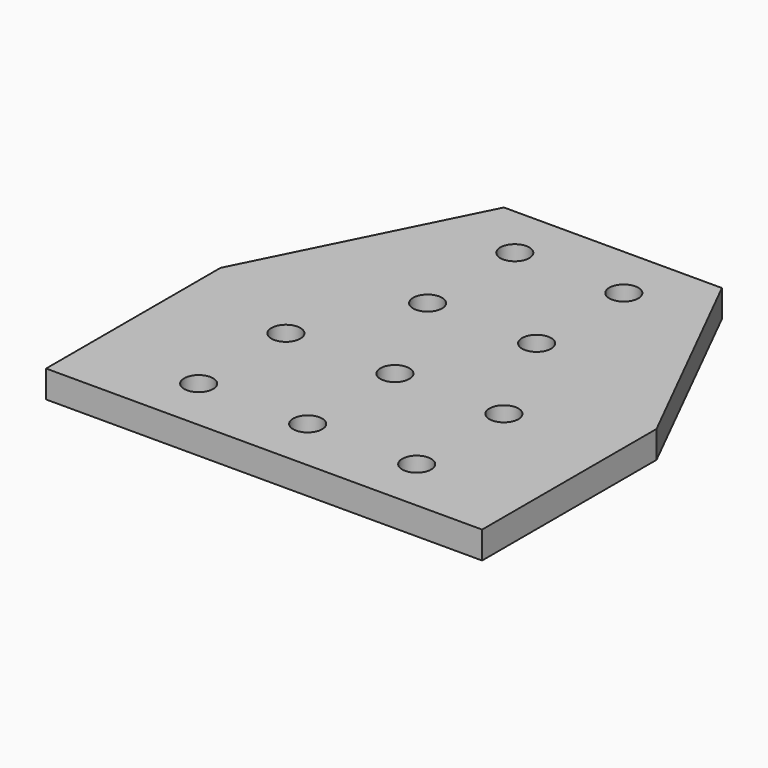
from build123d import *

# Parameters (mm, degrees)
F0_R     = 3.3782
F1_DEPTH = 6.35


with BuildPart() as f1:
    # F0 (on Top) → F1 (new body)
    with BuildSketch(Plane.XY):
        Polygon((76.2, 0), (25.4, 0), (0, -50.8), (0, -101.6), (101.6, -101.6), (101.6, -50.8), align=None)
        with Locations((25.4, -88.9)):
            Circle(F0_R, mode=Mode.SUBTRACT)
        with Locations((50.8, -88.9)):
            Circle(F0_R, mode=Mode.SUBTRACT)
        with Locations((25.4, -63.5)):
            Circle(F0_R, mode=Mode.SUBTRACT)
        with Locations((50.8, -63.5)):
            Circle(F0_R, mode=Mode.SUBTRACT)
        with Locations((76.2, -88.9)):
            Circle(F0_R, mode=Mode.SUBTRACT)
        with Locations((76.2, -63.5)):
            Circle(F0_R, mode=Mode.SUBTRACT)
        with Locations((38.1, -38.1)):
            Circle(F0_R, mode=Mode.SUBTRACT)
        with Locations((38.1, -12.7)):
            Circle(F0_R, mode=Mode.SUBTRACT)
        with Locations((63.5, -38.1)):
            Circle(F0_R, mode=Mode.SUBTRACT)
        with Locations((63.5, -12.7)):
            Circle(F0_R, mode=Mode.SUBTRACT)
    extrude(amount=F1_DEPTH)


solid = f1.part
